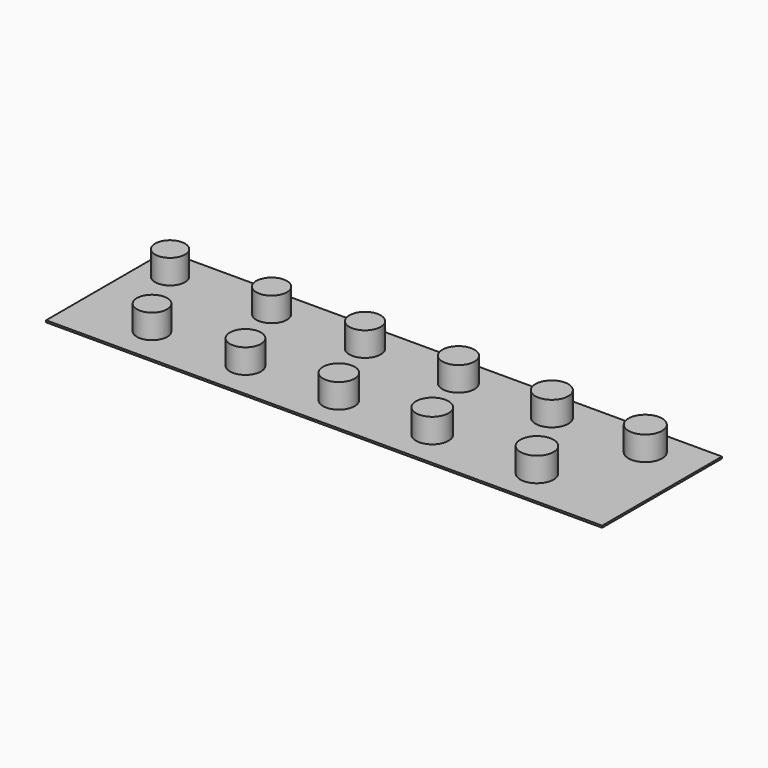
from build123d import *

# Parameters (mm, degrees)
F0_R     = 4.05
F0_R_2   = 4.15
F0_R_3   = 4
F0_R_4   = 4.1
F0_R_5   = 4.2
F0_R_6   = 4.25
F0_R_7   = 4.35
F0_R_8   = 4.3
F0_R_9   = 4.4
F0_R_10  = 4.45
F0_R_11  = 4.5
F1_DEPTH = 7
F0_W     = 148.804592
F0_H     = 40.065791
F2_DEPTH = 0.5


with BuildPart() as f1:
    # F0 (on Top) → F1 (new body)
    with BuildSketch(Plane.XY):
        with Locations((-56.89046, -30.130364)):
            Circle(F0_R)
        with Locations((-31.89046, -30.130364)):
            Circle(F0_R_2)
        with Locations((-69.39046, -8.479729)):
            Circle(F0_R_3)
        with Locations((-42.212952, -8.479729)):
            Circle(F0_R_4)
        with Locations((-17.212952, -8.479729)):
            Circle(F0_R_5)
        with Locations((-6.89046, -30.130364)):
            Circle(F0_R_6)
        with Locations((18.10954, -30.130364)):
            Circle(F0_R_7)
        with Locations((7.787048, -8.479729)):
            Circle(F0_R_8)
        with Locations((32.787048, -8.479729)):
            Circle(F0_R_9)
        with Locations((46.118356, -30.133799)):
            Circle(F0_R_10)
        with Locations((57.787048, -8.479729)):
            Circle(F0_R_11)
    extrude(amount=F1_DEPTH)


with BuildPart() as f2:
    # F0 (on Top) → F2 (new body)
    with BuildSketch(Plane.XY):
        with Locations((-2.889595, -20.032895)):
            Rectangle(F0_W, F0_H)
        with Locations((-56.89046, -30.130364)):
            Circle(F0_R, mode=Mode.SUBTRACT)
        with Locations((-31.89046, -30.130364)):
            Circle(F0_R_2, mode=Mode.SUBTRACT)
        with Locations((-6.89046, -30.130364)):
            Circle(F0_R_6, mode=Mode.SUBTRACT)
        with Locations((18.10954, -30.130364)):
            Circle(F0_R_7, mode=Mode.SUBTRACT)
        with Locations((46.118356, -30.133799)):
            Circle(F0_R_10, mode=Mode.SUBTRACT)
        with Locations((-69.39046, -8.479729)):
            Circle(F0_R_3, mode=Mode.SUBTRACT)
        with Locations((-42.212952, -8.479729)):
            Circle(F0_R_4, mode=Mode.SUBTRACT)
        with Locations((-17.212952, -8.479729)):
            Circle(F0_R_5, mode=Mode.SUBTRACT)
        with Locations((7.787048, -8.479729)):
            Circle(F0_R_8, mode=Mode.SUBTRACT)
        with Locations((32.787048, -8.479729)):
            Circle(F0_R_9, mode=Mode.SUBTRACT)
        with Locations((57.787048, -8.479729)):
            Circle(F0_R_11, mode=Mode.SUBTRACT)
    extrude(amount=F2_DEPTH)


solid = Compound([f1.part, f2.part])
